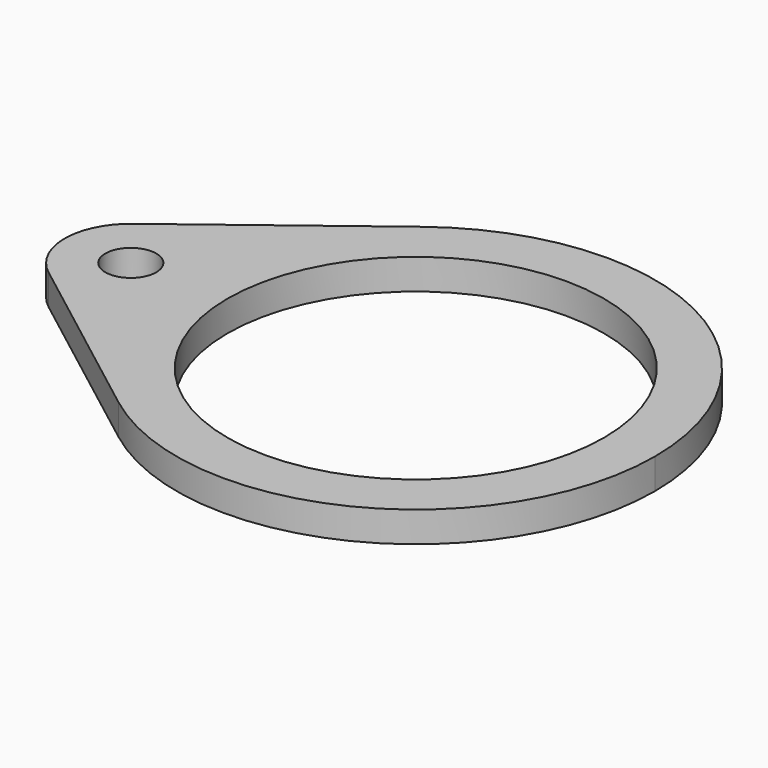
from build123d import *

# Parameters (mm, degrees)
F0_R     = 2.5
F1_DEPTH = 3


with BuildPart() as f1:
    # F0 (on Top) → F1 (new body)
    with BuildSketch(Plane.XY):
        with BuildLine():
            ThreePointArc((-23.5, 0), (-23.40158, 2.148504), (-23.107143, 4.279013))
            ThreePointArc((-23.107143, 4.279013), (-27.351841, 6.467603), (-31.946429, 5.164853))
            ThreePointArc((-31.946429, 5.164853), (-34.5, 0), (-31.946429, -5.164853))
            ThreePointArc((-31.946429, -5.164853), (-27.351841, -6.467603), (-23.107143, -4.279013))
            ThreePointArc((-23.107143, -4.279013), (-23.40158, -2.148504), (-23.5, 0))
        make_face()
        with Locations((-28, 0)):
            Circle(F0_R, mode=Mode.SUBTRACT)
        with BuildLine():
            ThreePointArc((-23.107143, 4.279013), (-20.025455, 12.297607), (-14.267857, 18.672928))
            Line((-14.267857, 18.672928), (-31.946429, 5.164853))
            ThreePointArc((-31.946429, 5.164853), (-27.351841, 6.467603), (-23.107143, 4.279013))
        make_face()
        with BuildLine():
            Line((-31.946429, -5.164853), (-14.267857, -18.672928))
            ThreePointArc((-14.267857, -18.672928), (-20.025455, -12.297607), (-23.107143, -4.279013))
            ThreePointArc((-23.107143, -4.279013), (-27.351841, -6.467603), (-31.946429, -5.164853))
        make_face()
        with BuildLine():
            ThreePointArc((-21.5, 0), (-21.915036, 2.285435), (-23.107143, 4.279013))
            ThreePointArc((-23.107143, 4.279013), (-23.40158, 2.148504), (-23.5, 0))
            Line((-23.5, 0), (-21.5, 0))
        make_face()
        with BuildLine():
            ThreePointArc((-23.5, 0), (-23.40158, -2.148504), (-23.107143, -4.279013))
            ThreePointArc((-23.107143, -4.279013), (-21.915036, -2.285435), (-21.5, 0))
            Line((-21.5, 0), (-23.5, 0))
        make_face()
        with BuildLine():
            ThreePointArc((-14.267857, -18.672928), (10.415262, -21.065904), (23.5, 0))
            ThreePointArc((23.5, 0), (10.415262, 21.065904), (-14.267857, 18.672928))
            ThreePointArc((-14.267857, 18.672928), (-20.025455, 12.297607), (-23.107143, 4.279013))
            ThreePointArc((-23.107143, 4.279013), (-21.915036, 2.285435), (-21.5, 0))
            ThreePointArc((-21.5, 0), (-21.915036, -2.285435), (-23.107143, -4.279013))
            ThreePointArc((-23.107143, -4.279013), (-20.025455, -12.297607), (-14.267857, -18.672928))
        make_face()
        with BuildLine():
            ThreePointArc((18.5, 0), (0, -18.5), (-18.5, 0))
            ThreePointArc((-18.5, 0), (0, 18.5), (18.5, 0))
        make_face(mode=Mode.SUBTRACT)
    extrude(amount=F1_DEPTH)


solid = f1.part
